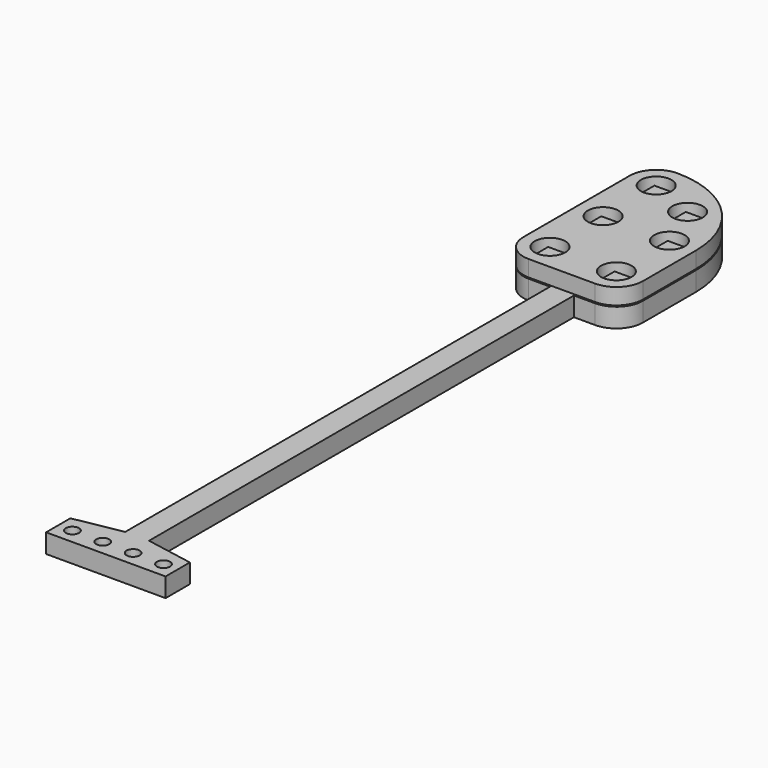
from build123d import *

# Parameters (mm, degrees)
SKETCH_R          = 1.277778
PAD_DEPTH         = 1.355556
SKETCH001_W       = 1.5
SKETCH001_H       = 1.5
PAD001_DEPTH      = 0.8
PAD001_DEPTH_BACK = 1.6
PAD002_DEPTH      = 1.6
SKETCH003_R       = 0.55
PAD003_DEPTH      = 1.6


with BuildPart() as part:
    # Sketch (on XY_Plane of Origin) → Pad (new body)
    with BuildSketch(Plane.XY):
        with BuildLine():
            ThreePointArc((2.22, 15.551111), (0.650223, 14.900888), (0, 13.331111))
            Line((0, 13.331111), (0, 2.219999))
            ThreePointArc((0, 2.219999), (0.650223, 0.650223), (2.22, 0))
            Line((2.22, 0), (7.775544, 0))
            ThreePointArc((7.775544, 0), (9.345329, 0.650219), (9.995556, 2.22))
            Line((9.995556, 2.22), (9.995556, 7.775556))
            ThreePointArc((9.995556, 7.775556), (7.718148, 13.273704), (2.22, 15.551111))
        make_face()
        with Locations((2.22, 13.331111)):
            Circle(SKETCH_R, mode=Mode.SUBTRACT)
        with Locations((2.22, 7.775556)):
            Circle(SKETCH_R, mode=Mode.SUBTRACT)
        with Locations((2.22, 2.22)):
            Circle(SKETCH_R, mode=Mode.SUBTRACT)
        with Locations((7.775556, 7.775556)):
            Circle(SKETCH_R, mode=Mode.SUBTRACT)
        with Locations((7.775556, 2.22)):
            Circle(SKETCH_R, mode=Mode.SUBTRACT)
        with Locations((6.148371, 11.703927)):
            Circle(SKETCH_R, mode=Mode.SUBTRACT)
    extrude(amount=PAD_DEPTH)

    # Sketch001 (on XY_Plane of Origin) → Pad001 (join, two sides)
    with BuildSketch(Plane.XY) as pad001_sk:
        with Locations((2.22, 13.331111)):
            Rectangle(SKETCH001_W, SKETCH001_H)
        with Locations((7.775556, 7.775556)):
            Rectangle(SKETCH001_W, SKETCH001_H)
        with Locations((2.22, 7.775556)):
            Rectangle(SKETCH001_W, SKETCH001_H)
        with Locations((2.22, 2.22)):
            Rectangle(SKETCH001_W, SKETCH001_H)
        with Locations((7.775556, 2.22)):
            Rectangle(SKETCH001_W, SKETCH001_H)
        with Locations((6.148371, 11.703927)):
            Rectangle(SKETCH001_W, SKETCH001_H)
    extrude(amount=PAD001_DEPTH)
    extrude(pad001_sk.sketch, amount=-PAD001_DEPTH_BACK)

    # Sketch002 (on XY_Plane of Origin) → Pad002 (join)
    with BuildSketch(Plane.XY.offset(-1.7)):
        with BuildLine():
            ThreePointArc((2.22, 15.551111), (0.650223, 14.900888), (0, 13.331111))
            Line((0, 13.331111), (0, 2.219999))
            ThreePointArc((0, 2.219999), (0.650223, 0.650223), (2.22, 0))
            Line((2.22, 0), (7.775544, 0))
            ThreePointArc((7.775544, 0), (9.345329, 0.650219), (9.995556, 2.22))
            Line((9.995556, 2.22), (9.995556, 7.775556))
            ThreePointArc((9.995556, 7.775556), (7.718148, 13.273704), (2.22, 15.551111))
        make_face()
    extrude(amount=PAD002_DEPTH)

    # Sketch003 (on Face34 of Pad002) → Pad003 (join)
    with BuildSketch(Plane(origin=(0, 0, -1.7), x_dir=(1, 0, 0), z_dir=(0, 0, -1))):
        Polygon((0, 45.174444), (0, 47.714444), (10, 47.714444), (10, 45.174444), (6, 44.444444), (6, 0), (4, 0), (4, 44.444444), align=None)
        with Locations((1.19, 46.444444)):
            Circle(SKETCH003_R, mode=Mode.SUBTRACT)
        with Locations((3.73, 46.444444)):
            Circle(SKETCH003_R, mode=Mode.SUBTRACT)
        with Locations((6.27, 46.444444)):
            Circle(SKETCH003_R, mode=Mode.SUBTRACT)
        with Locations((8.81, 46.444444)):
            Circle(SKETCH003_R, mode=Mode.SUBTRACT)
    extrude(amount=-PAD003_DEPTH)


solid = part.part
